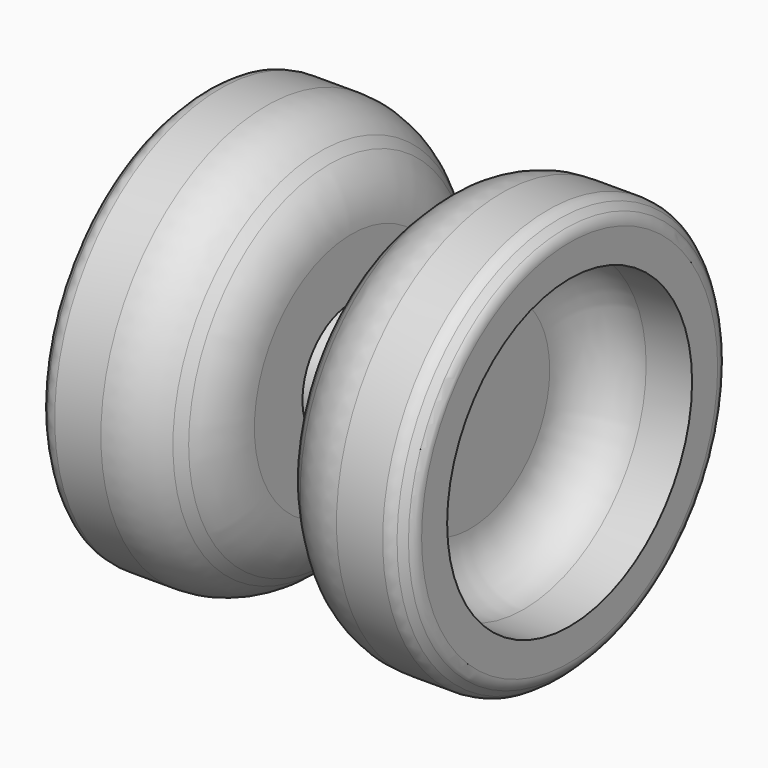
from build123d import *

# Parameters (mm, degrees)
F2_SIZE  = 7
F3_R     = 10
F4_SIZE  = 2
F5_R     = 2
F6_R     = 20
F7_DEPTH = 13
F8_R     = 20
F9_DEPTH = 13
F10_R    = 7


with BuildPart() as f1:
    # F0 (on Top) → F1 (revolve)
    with BuildSketch(Plane.XY):
        Polygon((0, 8), (-4.25, 8), (-4.25, 27), (-24.25, 27), (-24.25, 0), (24.25, 0), (24.25, 27), (4.25, 27), (4.25, 8), align=None)
    revolve(axis=Axis((0, 0, 0), (1, 0, 0)))

    # F2
    f2_edges = [f1.edges().sort_by_distance(p)[0] for p in [
        (-4.25, -27, 0),
        (4.25, -27, 0),
    ]]
    chamfer(f2_edges, length=F2_SIZE)

    # F3
    f3_edges = [f1.edges().sort_by_distance(p)[0] for p in [
        (-4.25, -20, 0),
        (-11.25, -27, 0),
        (4.25, -20, 0),
        (11.25, -27, 0),
    ]]
    fillet(f3_edges, radius=F3_R)

    # F4
    f4_edges = [f1.edges().sort_by_distance(p)[0] for p in [
        (-24.25, -27, 0),
        (24.25, -27, 0),
    ]]
    chamfer(f4_edges, length=F4_SIZE)

    # F5
    f5_edges = [f1.edges().sort_by_distance(p)[0] for p in [
        (-22.25, -27, 0),
        (22.25, -27, 0),
        (-24.25, -25, 0),
        (24.25, -25, 0),
    ]]
    fillet(f5_edges, radius=F5_R)

    # F6 (on face) → F7 (cut)
    with BuildSketch(Plane.YZ.offset(24.25)):
        Circle(F6_R)
    extrude(amount=-F7_DEPTH, mode=Mode.SUBTRACT)

    # F8 (on face) → F9 (cut)
    with BuildSketch(Plane(origin=(-24.25, 0, 0), x_dir=(0, -1, 0), z_dir=(-1, 0, 0))):
        Circle(F8_R)
    extrude(amount=-F9_DEPTH, mode=Mode.SUBTRACT)

    # F10
    f10_edges = [f1.edges().sort_by_distance(p)[0] for p in [
        (11.25, -20, 0),
        (-11.25, 20, 0),
    ]]
    fillet(f10_edges, radius=F10_R)


solid = f1.part
